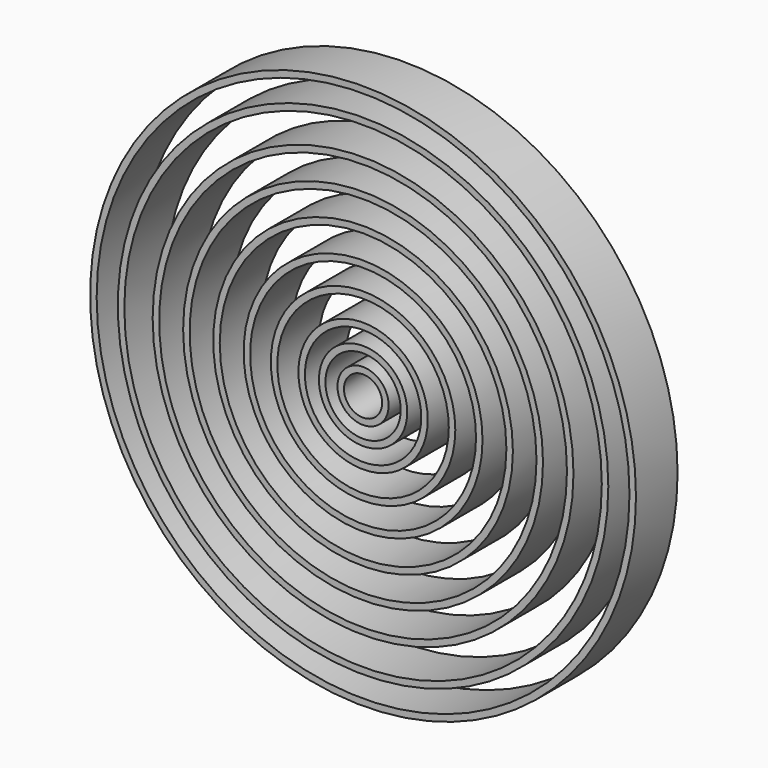
from build123d import *

# Parameters (mm, degrees)
F0_R      = 104.952846
F1_DEPTH  = 10
F2_T      = -2.5
F3_R      = 94.313262
F4_DEPTH  = 10
F5_T      = -2.5
F6_R      = 80.914942
F7_DEPTH  = 10
F8_T      = -2.5
F9_R      = 69.197117
F10_DEPTH = 10
F11_T     = -2.5
F12_R     = 57.621545
F13_DEPTH = 10
F14_T     = -2.5
F15_R     = 45.942481
F16_DEPTH = 10
F17_T     = -2.5
F18_R     = 35.474602
F19_DEPTH = 10
F20_T     = -2.5
F21_R     = 24.870357
F22_DEPTH = 10
F23_T     = -2.5
F24_R     = 16.981804
F25_DEPTH = 10
F26_T     = -2.5
F27_R     = 9.843111
F28_DEPTH = 10
F29_T     = -2.5


with BuildPart() as f1:
    # F0 (on Front) → F1 (new body, symmetric)
    with BuildSketch(Plane.XZ):
        Circle(F0_R)
    extrude(amount=F1_DEPTH, both=True)

    # F2
    f2_openings = [f1.faces().sort_by_distance(p)[0] for p in [
        (0, -10, 0),
        (0, 10, 0),
    ]]
    offset(amount=F2_T, openings=f2_openings)


with BuildPart() as f4:
    # F3 (on Front) → F4 (new body, symmetric)
    with BuildSketch(Plane.XZ):
        Circle(F3_R)
    extrude(amount=F4_DEPTH, both=True)

    # F5
    f5_openings = [f4.faces().sort_by_distance(p)[0] for p in [
        (0, -10, 0),
        (0, 10, 0),
    ]]
    offset(amount=F5_T, openings=f5_openings)


with BuildPart() as f7:
    # F6 (on Front) → F7 (new body, symmetric)
    with BuildSketch(Plane.XZ):
        Circle(F6_R)
    extrude(amount=F7_DEPTH, both=True)

    # F8
    f8_openings = [f7.faces().sort_by_distance(p)[0] for p in [
        (0, -10, 0),
        (0, 10, 0),
    ]]
    offset(amount=F8_T, openings=f8_openings)


with BuildPart() as f10:
    # F9 (on Front) → F10 (new body, symmetric)
    with BuildSketch(Plane.XZ):
        Circle(F9_R)
    extrude(amount=F10_DEPTH, both=True)

    # F11
    f11_openings = [f10.faces().sort_by_distance(p)[0] for p in [
        (0, -10, 0),
        (0, 10, 0),
    ]]
    offset(amount=F11_T, openings=f11_openings)


with BuildPart() as f13:
    # F12 (on Front) → F13 (new body, symmetric)
    with BuildSketch(Plane.XZ):
        Circle(F12_R)
    extrude(amount=F13_DEPTH, both=True)

    # F14
    f14_openings = [f13.faces().sort_by_distance(p)[0] for p in [
        (0, -10, 0),
        (0, 10, 0),
    ]]
    offset(amount=F14_T, openings=f14_openings)


with BuildPart() as f16:
    # F15 (on Front) → F16 (new body, symmetric)
    with BuildSketch(Plane.XZ):
        Circle(F15_R)
    extrude(amount=F16_DEPTH, both=True)

    # F17
    f17_openings = [f16.faces().sort_by_distance(p)[0] for p in [
        (0, -10, 0),
        (0, 10, 0),
    ]]
    offset(amount=F17_T, openings=f17_openings)


with BuildPart() as f19:
    # F18 (on Front) → F19 (new body, symmetric)
    with BuildSketch(Plane.XZ):
        Circle(F18_R)
    extrude(amount=F19_DEPTH, both=True)

    # F20
    f20_openings = [f19.faces().sort_by_distance(p)[0] for p in [
        (0, -10, 0),
        (0, 10, 0),
    ]]
    offset(amount=F20_T, openings=f20_openings)


with BuildPart() as f22:
    # F21 (on Front) → F22 (new body, symmetric)
    with BuildSketch(Plane.XZ):
        Circle(F21_R)
    extrude(amount=F22_DEPTH, both=True)

    # F23
    f23_openings = [f22.faces().sort_by_distance(p)[0] for p in [
        (0, -10, 0),
        (0, 10, 0),
    ]]
    offset(amount=F23_T, openings=f23_openings)


with BuildPart() as f25:
    # F24 (on Front) → F25 (new body, symmetric)
    with BuildSketch(Plane.XZ):
        Circle(F24_R)
    extrude(amount=F25_DEPTH, both=True)

    # F26
    f26_openings = [f25.faces().sort_by_distance(p)[0] for p in [
        (0, -10, 0),
        (0, 10, 0),
    ]]
    offset(amount=F26_T, openings=f26_openings)


with BuildPart() as f28:
    # F27 (on Front) → F28 (new body, symmetric)
    with BuildSketch(Plane.XZ):
        Circle(F27_R)
    extrude(amount=F28_DEPTH, both=True)

    # F29
    f29_openings = [f28.faces().sort_by_distance(p)[0] for p in [
        (0, -10, 0),
        (0, 10, 0),
    ]]
    offset(amount=F29_T, openings=f29_openings)


solid = Compound([f1.part, f4.part, f7.part, f10.part, f13.part, f16.part, f19.part, f22.part, f25.part, f28.part])
